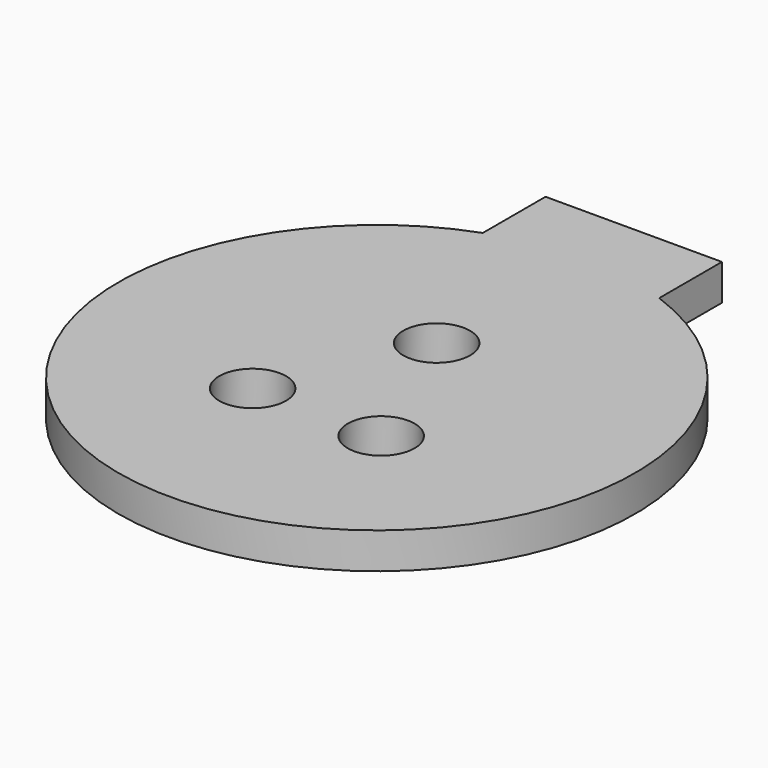
from build123d import *

# Parameters (mm, degrees)
F0_R     = 6.5
F1_DEPTH = 7


with BuildPart() as f1:
    # F0 (on Top) → F1 (new body)
    with BuildSketch(Plane.XY):
        with BuildLine():
            Line((-17.15, 62.456869), (-17.15, 47.216869))
            ThreePointArc((-17.15, 47.216869), (0, -50.235), (17.15, 47.216869))
            Line((17.15, 47.216869), (17.15, 62.456869))
            Line((17.15, 62.456869), (0, 62.456869))
            Line((0, 62.456869), (-17.15, 62.456869))
        make_face()
        with Locations((-12.5, -14.555)):
            Circle(F0_R, mode=Mode.SUBTRACT)
        with Locations((12.5, -14.555)):
            Circle(F0_R, mode=Mode.SUBTRACT)
        with Locations((0, 14.555)):
            Circle(F0_R, mode=Mode.SUBTRACT)
    extrude(amount=F1_DEPTH)


solid = f1.part
